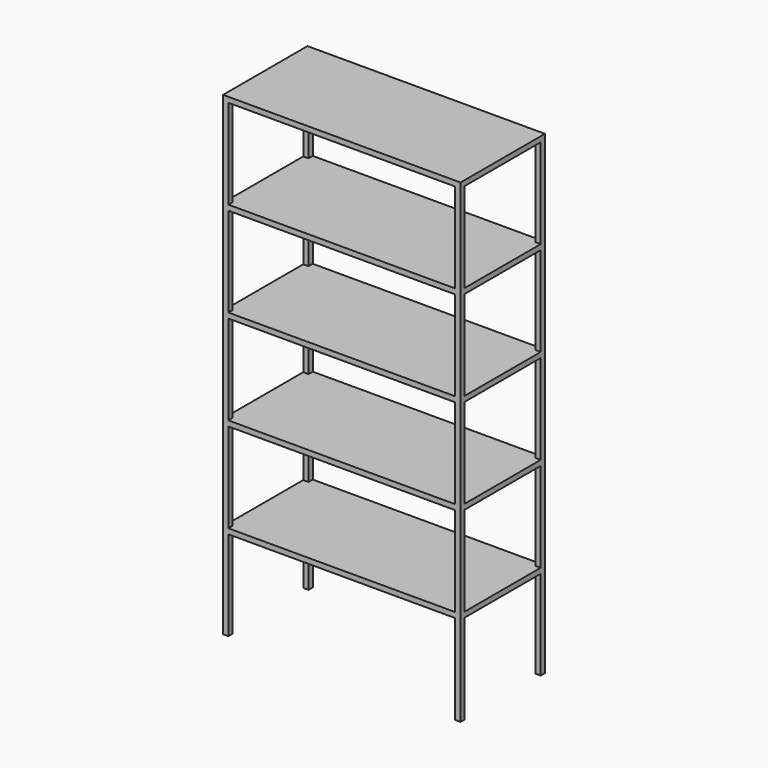
from build123d import *

# Parameters (mm, degrees)
F0_W     = 90
F0_H     = 40
F1_DEPTH = 180
F2_W     = 86
F2_H     = 34
F3_DEPTH = 40.001
F4_W     = 36
F4_H     = 34
F5_DEPTH = 90.001


with BuildPart() as f1:
    # F0 (on Top) → F1 (new body)
    with BuildSketch(Plane.XY):
        with Locations((10.468276, -2.930649)):
            Rectangle(F0_W, F0_H)
    extrude(amount=F1_DEPTH)

    # F2 (on face) → F3 (cut, through all)
    with BuildSketch(Plane.XZ.offset(22.930649)):
        with Locations((10.468276, 161)):
            Rectangle(F2_W, F2_H)
        with Locations((10.468276, 125)):
            Rectangle(F2_W, F2_H)
        with Locations((10.468276, 89)):
            Rectangle(F2_W, F2_H)
        with Locations((10.468276, 53)):
            Rectangle(F2_W, F2_H)
        with Locations((10.468276, 17)):
            Rectangle(F2_W, F2_H)
    extrude(amount=-F3_DEPTH, mode=Mode.SUBTRACT)

    # F4 (on face) → F5 (cut, through all)
    with BuildSketch(Plane(origin=(-34.531724, 0, 0), x_dir=(0, -1, 0), z_dir=(-1, 0, 0))):
        with Locations((2.930649, 161)):
            Rectangle(F4_W, F4_H)
        with Locations((2.930649, 125)):
            Rectangle(F4_W, F4_H)
        with Locations((2.930649, 89)):
            Rectangle(F4_W, F4_H)
        with Locations((2.930649, 53)):
            Rectangle(F4_W, F4_H)
        with Locations((2.930649, 17)):
            Rectangle(F4_W, F4_H)
    extrude(amount=-F5_DEPTH, mode=Mode.SUBTRACT)


solid = f1.part
